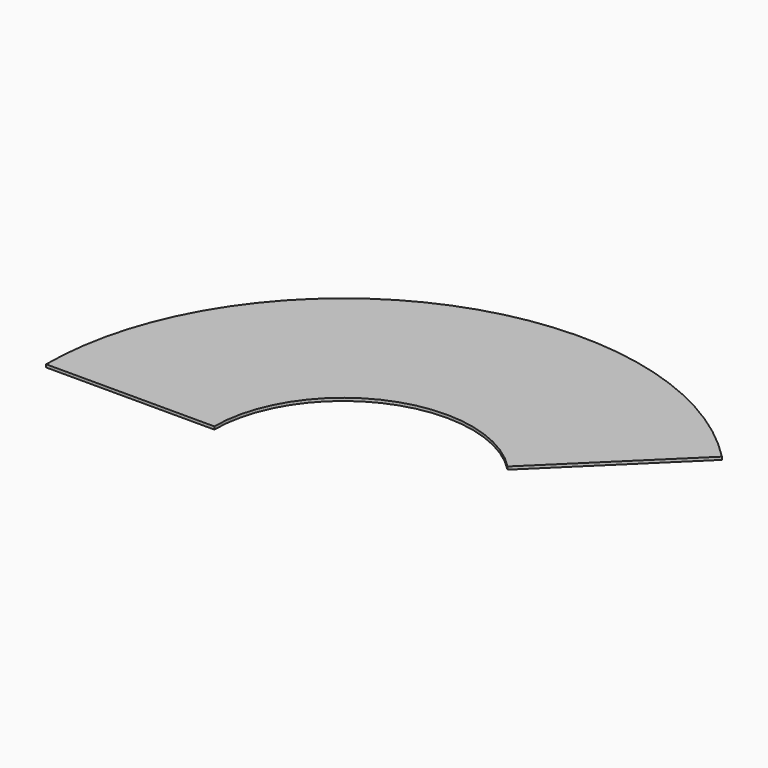
from build123d import *

# Parameters (mm, degrees)
F1_DEPTH = 1
F3_DEPTH = 2


with BuildPart() as f1:
    # F0 (on Top) → F1 (new body)
    with BuildSketch(Plane.XY):
        with BuildLine():
            Line((32.444928, 31.685156), (74.762845, 73.012102))
            ThreePointArc((74.762845, 73.012102), (-39.417843, 96.780595), (-104.5, 0))
            Line((-104.5, 0), (-45.35, 0))
            ThreePointArc((-45.35, 0), (-17.106212, 42), (32.444928, 31.685156))
        make_face()
    extrude(amount=F1_DEPTH)

    # F2 (on face) → F3 (join)
    with BuildSketch(Plane.XY.offset(1)):
        Polygon((-24.734859, 59.074202), (-24.153877, 59.303767), (-24.908327, 61.156129), (-25.46983, 60.93426), align=None)
        Polygon((-24.908327, 61.156129), (-24.153877, 59.303767), (-22.874801, 59.809172), (-21.014742, 60.544143), (-21.749713, 62.404202), (-23.609771, 61.669231), align=None)
        Polygon((-30.247139, 73.024641), (-29.812251, 73.19648), (-30.566701, 75.048842), (-30.98211, 74.8847), align=None)
        Polygon((-30.566701, 75.048842), (-29.812251, 73.19648), (-28.387081, 73.759612), (-26.527022, 74.494583), (-27.261993, 76.354641), (-29.122051, 75.619671), align=None)
        Polygon((-55.841003, 34.054731), (-54.724372, 35.713989), (-56.383629, 36.83062), (-57.50026, 35.171363), align=None)
        Polygon((-68.285433, 42.429465), (-67.168802, 44.088722), (-68.828059, 45.205353), (-69.94469, 43.546096), align=None)
        Polygon((-68.828059, 45.205353), (-67.168802, 44.088722), (-66.052171, 45.747979), (-67.711428, 46.86461), align=None)
        Polygon((-56.383629, 36.83062), (-54.724372, 35.713989), (-53.60774, 37.373246), (-55.266998, 38.489877), align=None)
        Polygon((-56.957634, 32.395474), (-55.841003, 34.054731), (-57.50026, 35.171363), (-58.616891, 33.512105), align=None)
        Polygon((-69.402064, 40.770207), (-68.285433, 42.429465), (-69.94469, 43.546096), (-71.061321, 41.886838), align=None)
        Polygon((22.776784, 77.747336), (20.827569, 78.195176), (20.379729, 76.245961), (22.328944, 75.798121), align=None)
        Polygon((19.417982, 63.128223), (17.468767, 63.576063), (17.020927, 61.626848), (18.970142, 61.179008), align=None)
    extrude(amount=-F3_DEPTH)


solid = f1.part
